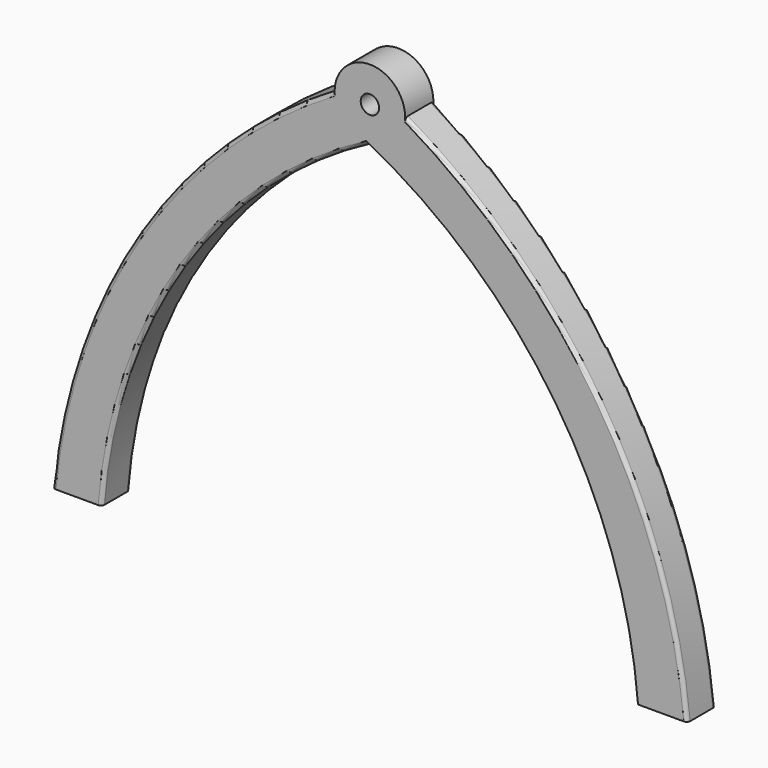
from build123d import *

# Parameters (mm, degrees)
SKETCH_R      = 2.6
EXTRUDE_DEPTH = 5
FILLET_R      = 1


with BuildPart() as part:
    # Sketch → Extrude (new body, symmetric)
    with BuildSketch(Plane.XZ):
        with BuildLine():
            ThreePointArc((10, 0), (0, 10), (-10, 0))
            ThreePointArc((-10, 0), (-64.999628, -52.900238), (-90, -125))
            Line((-76, -125), (-90, -125))
            ThreePointArc((0, -10), (-52.844624, -57.68964), (-76, -125))
            ThreePointArc((76, -125), (52.844624, -57.68964), (0, -10))
            Line((76, -125), (90, -125))
            ThreePointArc((90, -125), (64.999628, -52.900238), (10, 0))
        make_face()
        Circle(SKETCH_R, mode=Mode.SUBTRACT)
    extrude(amount=EXTRUDE_DEPTH, both=True)

    # Fillet
    fillet_edges = [part.edges().sort_by_distance(p)[0] for p in [
        (64.999628, 5, -52.900238),
        (64.999628, -5, -52.900238),
        (-64.999628, 5, -52.900238),
        (-64.999628, -5, -52.900238),
        (-52.844624, 5, -57.68964),
        (-52.844624, -5, -57.68964),
        (52.844624, 5, -57.68964),
    ]]
    fillet(fillet_edges, radius=FILLET_R)


solid = part.part
